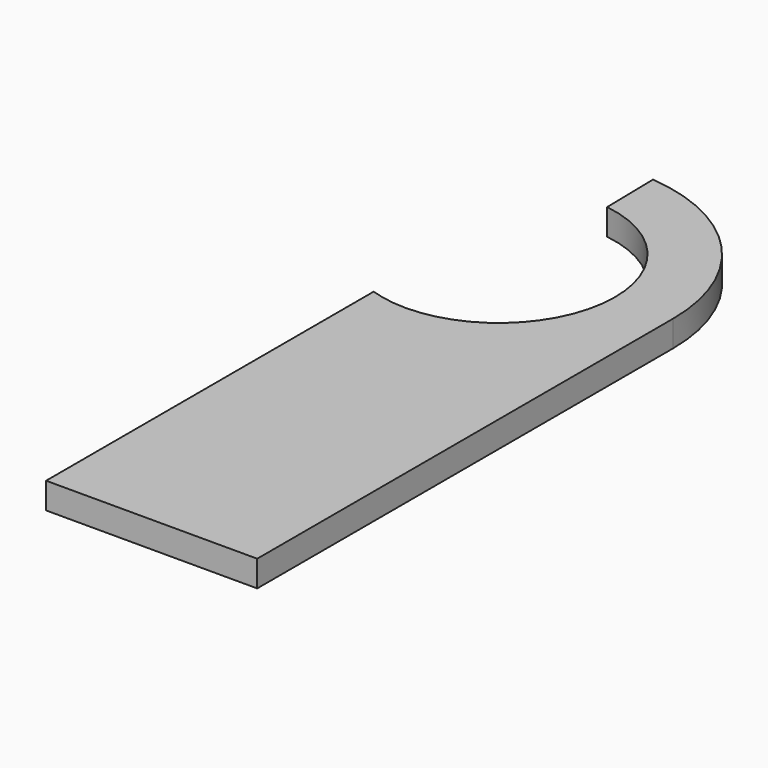
from build123d import *

# Parameters (mm, degrees)
PAD_DEPTH = 10


with BuildPart() as part:
    # Sketch → Pad (new body)
    with BuildSketch(Plane.XY):
        with BuildLine():
            Line((66.675, -198.640068), (66.675, 0))
            ThreePointArc((66.675, 0), (49.1691, 45.032823), (5.843948, 66.4184))
            Line((6.259361, 44.007078), (5.843948, 66.4184))
            ThreePointArc((0, -44.45), (44.339131, -3.137506), (6.259361, 44.007078))
            ThreePointArc((-14, -42.187706), (-7.090803, -43.880782), (0, -44.45))
            Line((-14, -198.640068), (-14, -42.187706))
            Line((0, -198.640068), (-14, -198.640068))
            Line((0, -198.640068), (66.675, -198.640068))
        make_face()
    extrude(amount=PAD_DEPTH)


solid = part.part
